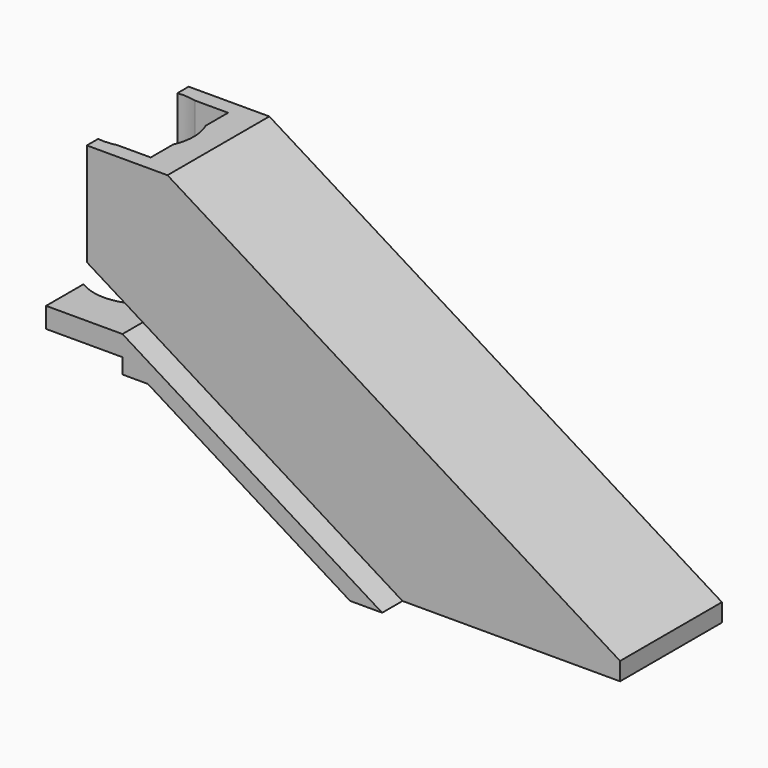
from build123d import *

# Parameters (mm, degrees)
F1_DEPTH      = 34.29
F1_DEPTH_BACK = 10.16
F3_DEPTH      = 27.94
F3_DEPTH_BACK = 3.81
F4_R          = 12.446
F5_DEPTH      = 39.37
F6_W          = 52.9463477433
F6_H          = 63.3781589568
F7_DEPTH      = 25.4
F9_DEPTH      = 24.13
F11_DEPTH     = 50.8
F12_W         = 7.2337351131
F12_H         = 31.75
F13_DEPTH     = 25.4


with BuildPart() as f1:
    # F0 (on Front) → F1 (new body, two sides)
    with BuildSketch(Plane.XZ) as f1_sk:
        Polygon((-19.05, 5.08), (-19.05, 0), (0, 0), (0, -35.052), (64.77, -35.052), (0, 5.08), align=None)
    extrude(amount=F1_DEPTH)
    extrude(f1_sk.sketch, amount=-F1_DEPTH_BACK)

    # F2 (on Front) → F3 (join, two sides)
    with BuildSketch(Plane.XZ) as f3_sk:
        Polygon((-13.97, 51.8359215686), (-13.97, 13.7359215686), (64.77, -35.052), (126.2605063291, -35.052), align=None)
    extrude(amount=F3_DEPTH)
    extrude(f3_sk.sketch, amount=-F3_DEPTH_BACK)

    # F4 (on face) → F5 (cut)
    with BuildSketch(Plane(origin=(0, 0, 0), x_dir=(1, 0, 0), z_dir=(0, 0, -1))):
        with Locations((-12.446, 12.065)):
            Circle(F4_R)
    extrude(amount=-F5_DEPTH, mode=Mode.SUBTRACT)

    # F6 (on face) → F7 (cut)
    with BuildSketch(Plane(origin=(0, 0, 39.37), x_dir=(1, 0, 0), z_dir=(0, 0, -1))):
        with Locations((-10.5953570455, 10.2349836379)):
            Rectangle(F6_W, F6_H)
    extrude(amount=-F7_DEPTH, mode=Mode.SUBTRACT)

    # F8 (on Front) → F9 (cut)
    with BuildSketch(Plane.XZ):
        Polygon((154.4132999091, -56.9777707196), (-10.16, 44.993136675), (-10.16, 11.3752156863), (100.156528693, -56.9777707196), align=None)
    extrude(amount=F9_DEPTH, mode=Mode.SUBTRACT)

    # F10 (on face) → F11 (cut)
    with BuildSketch(Plane.XZ.offset(34.29)):
        Polygon((0, -3.81), (0, -35.052), (56.7722151899, -35.052), (6.35, -3.81), align=None)
    extrude(amount=-F11_DEPTH, mode=Mode.SUBTRACT)

    # F12 (on face) → F13 (cut)
    with BuildSketch(Plane(origin=(0, 0, -35.052), x_dir=(1, 0, 0), z_dir=(0, 0, -1))):
        with Locations((122.6436387726, 12.065)):
            Rectangle(F12_W, F12_H)
    extrude(amount=-F13_DEPTH, mode=Mode.SUBTRACT)


solid = f1.part
